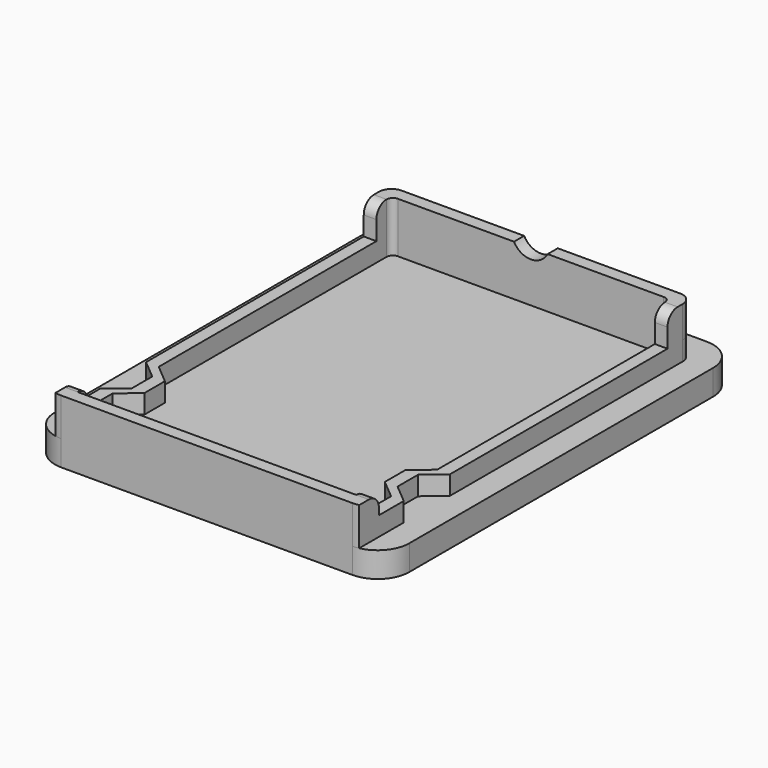
from build123d import *

# Parameters (mm, degrees)
PAD_DEPTH    = 2
PAD001_DEPTH = 1.5
PAD002_DEPTH = 1.5
PAD003_DEPTH = 2.5
SKETCH004_R  = 1.5
POCKET_DEPTH = 5
FILLET_R     = 1
FILLET001_R  = 1
FILLET002_R  = 1


with BuildPart() as part:
    # Sketch → Pad (new body)
    with BuildSketch(Plane.XY):
        with BuildLine():
            Line((-11.5, 17.5), (11.5, 17.5))
            ThreePointArc((14, 15), (13.267767, 16.767767), (11.5, 17.5))
            Line((14, 15), (14, -15))
            ThreePointArc((11.5, -17.5), (13.267767, -16.767767), (14, -15))
            Line((11.5, -17.5), (-11.5, -17.5))
            ThreePointArc((-14, -15), (-13.267767, -16.767767), (-11.5, -17.5))
            Line((-14, -15), (-14, 15))
            ThreePointArc((-11.5, 17.5), (-13.267767, 16.767767), (-14, 15))
        make_face()
    extrude(amount=PAD_DEPTH)

    # Sketch001 (on Face10 of Pad) → Pad001 (join)
    with BuildSketch(Plane.XY.offset(2)):
        with BuildLine():
            Line((-11, 15.5), (11, 15.5))
            ThreePointArc((12, 14.5), (11.707107, 15.207107), (11, 15.5))
            Line((12, 14.5), (12, -8.5))
            Line((12, -8.5), (10.5, -9.76))
            Line((10.5, -9.76), (10.5, -11.79))
            Line((10.5, -11.79), (12, -13.05))
            Line((12, -13.05), (12, -17.44949))
            ThreePointArc((11.5, -17.5), (11.751272, -17.48734), (12, -17.44949))
            Line((-11.5, -17.5), (11.5, -17.5))
            ThreePointArc((-12, -17.44949), (-11.751272, -17.48734), (-11.5, -17.5))
            Line((-12, -13.05), (-12, -17.44949))
            Line((-10.5, -11.79), (-12, -13.05))
            Line((-10.5, -9.76), (-10.5, -11.79))
            Line((-12, -8.5), (-10.5, -9.76))
            Line((-12, 14.5), (-12, -8.5))
            ThreePointArc((-11, 15.5), (-11.707107, 15.207107), (-12, 14.5))
        make_face()
        with BuildLine():
            Line((-11, -16.5), (-11, -13.05))
            Line((-11, -13.05), (-9.5, -11.79))
            Line((-9.5, -11.79), (-9.5, -9.76))
            Line((-9.5, -9.76), (-11, -8.5))
            Line((-11, -8.5), (-11, 14))
            ThreePointArc((-10.5, 14.5), (-10.853553, 14.353553), (-11, 14))
            Line((-10.5, 14.5), (10.5, 14.5))
            ThreePointArc((11, 14), (10.853553, 14.353553), (10.5, 14.5))
            Line((11, 14), (11, -8.5))
            Line((11, -8.5), (9.5, -9.76))
            Line((9.5, -9.76), (9.5, -11.79))
            Line((9.5, -11.79), (11, -13.05))
            Line((11, -13.05), (11, -16.5))
            Line((11, -16.5), (-11, -16.5))
        make_face(mode=Mode.SUBTRACT)
    extrude(amount=PAD001_DEPTH)

    # Sketch002 (on Face26 of Pad001) → Pad002 (join)
    with BuildSketch(Plane.XY.offset(3.5)):
        with BuildLine():
            ThreePointArc((11.5, -17.5), (11.751272, -17.48734), (12, -17.44949))
            Line((12, -16.5), (12, -17.44949))
            Line((12, -15.5), (12, -16.5))
            Line((11, -15.5), (12, -15.5))
            Line((11, -16.5), (11, -15.5))
            Line((11, -16.5), (-11, -16.5))
            Line((-11, -15.5), (-11, -16.5))
            Line((-12, -15.5), (-11, -15.5))
            Line((-12, -16.5), (-12, -15.5))
            Line((-12, -16.5), (-12, -17.44949))
            ThreePointArc((-12, -17.44949), (-11.751272, -17.48734), (-11.5, -17.5))
            Line((-11.5, -17.5), (11.5, -17.5))
        make_face()
    extrude(amount=PAD002_DEPTH)

    # Sketch003 (on Face28 of Pad002) → Pad003 (join)
    with BuildSketch(Plane.XY.offset(3.5)):
        with BuildLine():
            Line((-10.999986, 15.5), (11.000009, 15.5))
            ThreePointArc((12, 14.5), (11.70711, 15.207104), (11.000009, 15.5))
            Line((12, 14.5), (12, 13))
            Line((11, 13), (12, 13))
            Line((11, 14), (11, 13))
            ThreePointArc((11, 14), (10.853553, 14.353553), (10.5, 14.5))
            Line((-10.5, 14.5), (10.5, 14.5))
            ThreePointArc((-10.5, 14.5), (-10.853553, 14.353553), (-11, 14))
            Line((-11, 14), (-11, 13))
            Line((-12, 13), (-11, 13))
            Line((-12, 14.5), (-12, 13))
            ThreePointArc((-10.999986, 15.5), (-11.707102, 15.207112), (-12, 14.5))
        make_face()
    extrude(amount=PAD003_DEPTH)

    # Sketch004 (on Face33 of Pad003) → Pocket (cut)
    with BuildSketch(Plane(origin=(0, 15.5, 0), x_dir=(-1, 0, 0), z_dir=(0, 1, 0))):
        with Locations((0, 6.7)):
            Circle(SKETCH004_R)
    extrude(amount=-POCKET_DEPTH, mode=Mode.SUBTRACT)

    # Fillet
    fillet_edges = [part.edges().sort_by_distance(p)[0] for p in [
        (11.5, -15.5, 5),
    ]]
    fillet(fillet_edges, radius=FILLET_R)

    # Fillet001
    fillet001_edges = [part.edges().sort_by_distance(p)[0] for p in [
        (-11.5, -15.5, 5),
    ]]
    fillet(fillet001_edges, radius=FILLET001_R)

    # Fillet002
    fillet002_edges = [part.edges().sort_by_distance(p)[0] for p in [
        (-11.5, 13, 6),
        (11.5, 13, 6),
    ]]
    fillet(fillet002_edges, radius=FILLET002_R)


solid = part.part
